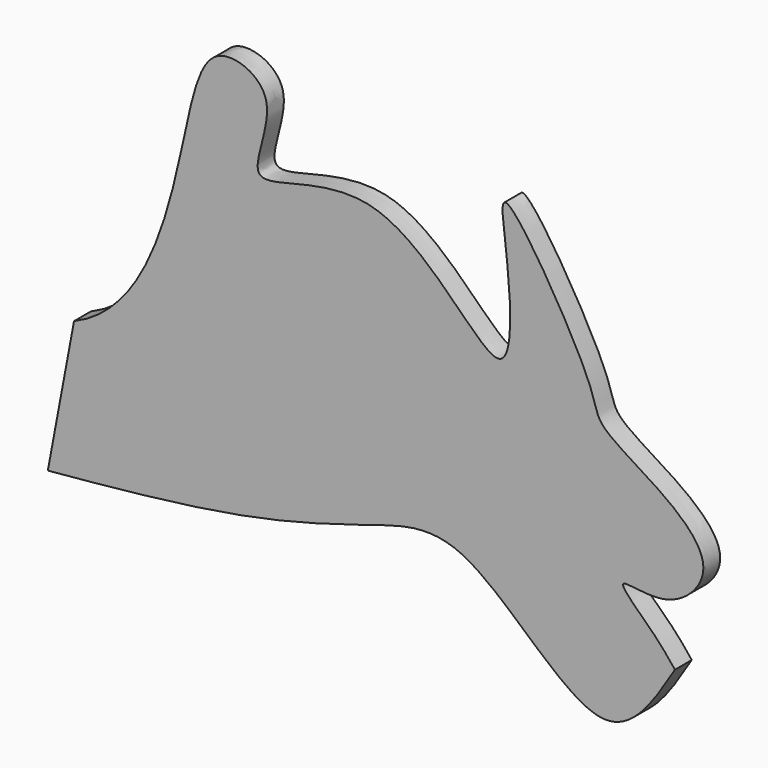
from build123d import *

# Parameters (mm, degrees)
F1_DEPTH = 5


with BuildPart() as f1:
    # F0 (on Front) → F1 (new body)
    with BuildSketch(Plane.XZ):
        with BuildLine():
            add(Edge.make_bspline(
                [(-71.0218160524, 12.5710277358), (-49.9838315676, 21.4103834539), (-45.5137779085, 67.8503086584), (-36.8896627974, 82.5044337379), (-20.4253155468, 75.1927070935), (-34.6478866826, 48.9231586675), (3.6320227273, 71.7951581428), (34.4812763511, 22.0164169532), (32.2099983655, 59.2996240014), (28.3250124098, 80.4199852449), (53.4727991545, 38.7459014568), (52.5239803247, 31.206132511), (68.846189253, 22.8079508887), (82.9375586342, 10.0040357513), (70.4743248796, -2.7580247864), (54.9680332456, 2.5742438108), (66.7828279154, -7.7066178663), (70.1264542688, -11.9354399628), (71.6797756974, -13.8952458577)],
                knots=[0, 0, 0, 0, 0.1158396156, 0.170322074, 0.2198670046, 0.2780617722, 0.3542879189, 0.4435443256, 0.5131779258, 0.5609027413, 0.6494852075, 0.6927636296, 0.7529738365, 0.8118622462, 0.8652880025, 0.9107547133, 0.9560708545, 1, 1, 1, 1], degree=3))
            Line((-71.0218160524, 12.5710277358), (-77.2466063499, -20.7013040781))
            add(Edge.make_bspline(
                [(71.6797756974, -13.8952458577), (66.5948462791, -22.1867338217), (54.8298442485, -41.3294748344), (22.8211793718, 0.4998741679), (-0.1610103457, -7.1454172271), (-25.175563139, -14.6018521327), (-53.120536208, -18.4944925632), (-69.4236143489, -19.9872851687), (-77.2466063499, -20.7013040781)],
                knots=[0, 0, 0, 0, 0.1551422277, 0.3584964715, 0.5075215934, 0.6716288916, 0.8424356554, 1, 1, 1, 1], degree=3))
        make_face()
    extrude(amount=F1_DEPTH)


solid = f1.part
